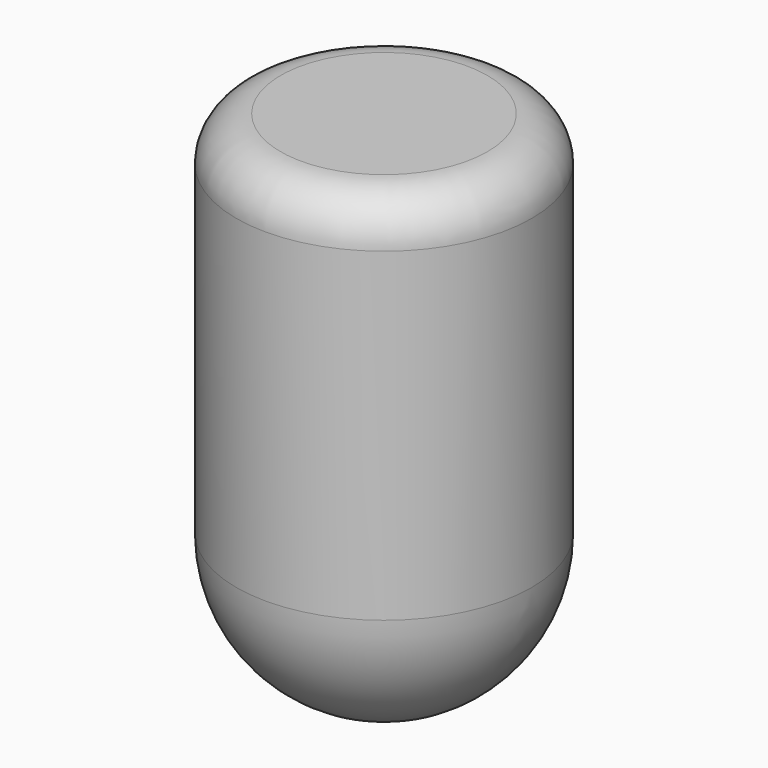
from build123d import *

# Parameters (mm, degrees)
CYLINDER005_R     = 100
CYLINDER005_DEPTH = 350
FILLET010_1_R     = 100
FILLET010_2_R     = 30


with BuildPart() as part:
    # Cylinder005 → Cylinder005 (new body)
    with BuildSketch(Plane(origin=(-350, 0, 1730), x_dir=(1, 0, 0), z_dir=(0, 0, 1))):
        Circle(CYLINDER005_R)
    extrude(amount=CYLINDER005_DEPTH)

    # Fillet010 1
    fillet010_1_edges = [part.edges().sort_by_distance(p)[0] for p in [
        (-450, 0, 1730),
    ]]
    fillet(fillet010_1_edges, radius=FILLET010_1_R)

    # Fillet010 2
    fillet010_2_edges = [part.edges().sort_by_distance(p)[0] for p in [
        (-450, 0, 2080),
    ]]
    fillet(fillet010_2_edges, radius=FILLET010_2_R)


solid = part.part
